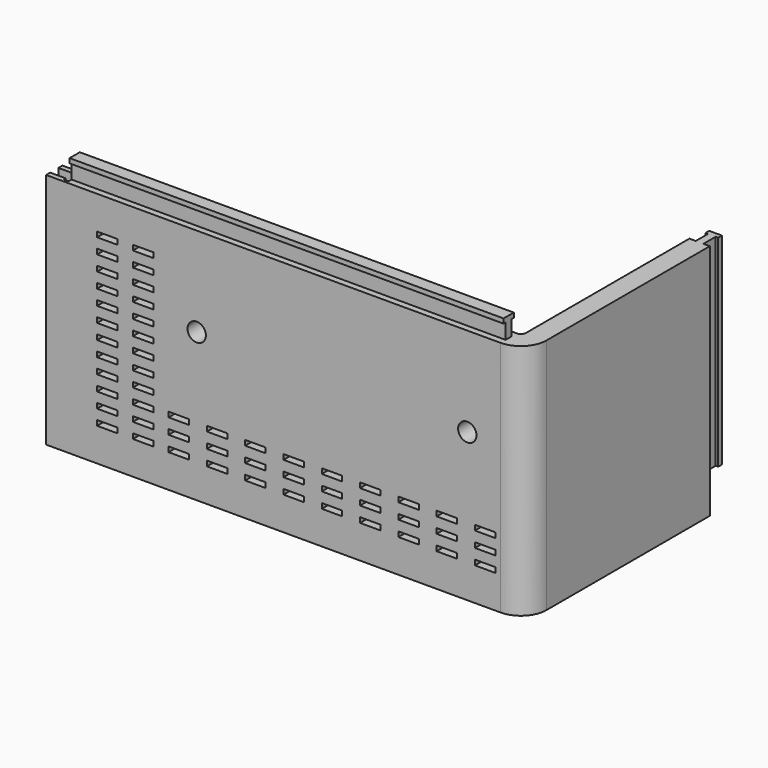
from build123d import *

# Parameters (mm, degrees)
PAD058_DEPTH                    = 46.5
SKETCH120_W                     = 4
SKETCH120_H                     = 1
POCKET068_DEPTH                 = 5
SKETCH120_LINEARPATTERN_2_W     = 4
SKETCH120_LINEARPATTERN_2_H     = 1
POCKET068_LINEARPATTERN_2_DEPTH = 5
LINEARPATTERN001_COUNT          = 12
LINEARPATTERN001_PITCH          = 2.954545
SKETCH122_W                     = 3
SKETCH122_H                     = 2
SKETCH122_W_2                   = 1
SKETCH122_H_2                   = 3
POCKET070_DEPTH                 = 70.9
SKETCH123_W                     = 2
SKETCH123_H                     = 35
POCKET071_DEPTH                 = 7
PAD_START                       = 4
SKETCH119_W                     = 1.5
SKETCH119_H                     = 3
SKETCH119_W_2                   = 2.5
SKETCH119_H_2                   = 0.9
PAD_DEPTH                       = 85
PAD059_START                    = 7
SKETCH_W                        = 1.5
SKETCH_H                        = 3
SKETCH_W_2                      = 2.5
SKETCH_H_2                      = 0.9
PAD059_DEPTH                    = 39.5
SKETCH124_W                     = 4
SKETCH124_H                     = 1
POCKET_DEPTH                    = 5
SKETCH124_LINEARPATTERN002_2_W  = 4
SKETCH124_LINEARPATTERN002_2_H  = 1
POCKET_LINEARPATTERN002_2_DEPTH = 5
SKETCH124_LINEARPATTERN002_3_W  = 4
SKETCH124_LINEARPATTERN002_3_H  = 1
POCKET_LINEARPATTERN002_3_DEPTH = 5
SKETCH124_LINEARPATTERN002_4_W  = 4
SKETCH124_LINEARPATTERN002_4_H  = 1
POCKET_LINEARPATTERN002_4_DEPTH = 5
SKETCH124_LINEARPATTERN002_5_W  = 4
SKETCH124_LINEARPATTERN002_5_H  = 1
POCKET_LINEARPATTERN002_5_DEPTH = 5
SKETCH124_LINEARPATTERN002_6_W  = 4
SKETCH124_LINEARPATTERN002_6_H  = 1
POCKET_LINEARPATTERN002_6_DEPTH = 5
SKETCH124_LINEARPATTERN002_7_W  = 4
SKETCH124_LINEARPATTERN002_7_H  = 1
POCKET_LINEARPATTERN002_7_DEPTH = 5
SKETCH124_LINEARPATTERN002_8_W  = 4
SKETCH124_LINEARPATTERN002_8_H  = 1
POCKET_LINEARPATTERN002_8_DEPTH = 5
SKETCH124_LINEARPATTERN002_9_W  = 4
SKETCH124_LINEARPATTERN002_9_H  = 1
POCKET_LINEARPATTERN002_9_DEPTH = 5
LINEARPATTERN003_COUNT          = 3
LINEARPATTERN003_PITCH          = 3
SKETCH126_R                     = 1.8
POCKET072_DEPTH                 = 5


with BuildPart() as part:
    # Sketch117 → Pad058 (new body)
    with BuildSketch(Plane.XY):
        with BuildLine():
            Line((0, 0), (89, 0))
            ThreePointArc((89, 0), (92.535534, 1.464466), (94, 5))
            Line((94, 5), (94, 45))
            Line((90, 45), (94, 45))
            Line((90, 5), (90, 45))
            ThreePointArc((89, 4), (89.707107, 4.292893), (90, 5))
            Line((0, 4), (89, 4))
            Line((0, 0), (0, 4))
        make_face()
    extrude(amount=PAD058_DEPTH)

    # Sketch120 → Pocket068 (cut)
    with BuildSketch(Plane.XZ):
        with Locations((12, 39.5)):
            Rectangle(SKETCH120_W, SKETCH120_H)
    pocket068 = extrude(amount=-POCKET068_DEPTH, mode=Mode.SUBTRACT)

    # Sketch120 LinearPattern 2 → Pocket068 LinearPattern 2 (cut)
    with BuildSketch(Plane(origin=(7, 0, 0), x_dir=(1, 0, 0), z_dir=(0, -1, 0))):
        with Locations((12, 39.5)):
            Rectangle(SKETCH120_LINEARPATTERN_2_W, SKETCH120_LINEARPATTERN_2_H)
    pocket068_linearpattern_2 = extrude(amount=-POCKET068_LINEARPATTERN_2_DEPTH, mode=Mode.SUBTRACT)

    # LinearPattern001: Pocket068, Pocket068 LinearPattern 2 ×12
    with Locations(*[(0, 0, -i * LINEARPATTERN001_PITCH) for i in range(1, LINEARPATTERN001_COUNT)]):
        add(pocket068, mode=Mode.SUBTRACT)
        add(pocket068_linearpattern_2, mode=Mode.SUBTRACT)

    # Sketch122 → Pocket070 (cut)
    with BuildSketch(Plane.XY):
        with Locations((1.5, 2)):
            Rectangle(SKETCH122_W, SKETCH122_H)
        with Locations((3.5, 2)):
            Rectangle(SKETCH122_W_2, SKETCH122_H_2)
    extrude(amount=POCKET070_DEPTH, mode=Mode.SUBTRACT)

    # Sketch123 → Pocket071 (cut)
    with BuildSketch(Plane.XY):
        with Locations((92, 27.5)):
            Rectangle(SKETCH123_W, SKETCH123_H)
    extrude(amount=POCKET071_DEPTH, mode=Mode.SUBTRACT)

    # Sketch119 → Pad (join)
    with BuildSketch(Plane.YZ.offset(PAD_START)):
        with Locations((2, 48)):
            Rectangle(SKETCH119_W, SKETCH119_H)
        with Locations((2, 49.95)):
            Rectangle(SKETCH119_W_2, SKETCH119_H_2)
    extrude(amount=PAD_DEPTH)

    # Sketch → Pad059 (join)
    with BuildSketch(Plane.XY.offset(PAD059_START)):
        with Locations((92, 46.5)):
            Rectangle(SKETCH_W, SKETCH_H)
        with Locations((92, 48.45)):
            Rectangle(SKETCH_W_2, SKETCH_H_2)
    extrude(amount=PAD059_DEPTH)

    # Sketch124 → Pocket (cut)
    with BuildSketch(Plane.XZ):
        with Locations((26, 7)):
            Rectangle(SKETCH124_W, SKETCH124_H)
    pocket = extrude(amount=-POCKET_DEPTH, mode=Mode.SUBTRACT)

    # Sketch124 LinearPattern002 2 → Pocket LinearPattern002 2 (cut)
    with BuildSketch(Plane(origin=(7.5, 0, 0), x_dir=(1, 0, 0), z_dir=(0, -1, 0))):
        with Locations((26, 7)):
            Rectangle(SKETCH124_LINEARPATTERN002_2_W, SKETCH124_LINEARPATTERN002_2_H)
    pocket_linearpattern002_2 = extrude(amount=-POCKET_LINEARPATTERN002_2_DEPTH, mode=Mode.SUBTRACT)

    # Sketch124 LinearPattern002 3 → Pocket LinearPattern002 3 (cut)
    with BuildSketch(Plane(origin=(15, 0, 0), x_dir=(1, 0, 0), z_dir=(0, -1, 0))):
        with Locations((26, 7)):
            Rectangle(SKETCH124_LINEARPATTERN002_3_W, SKETCH124_LINEARPATTERN002_3_H)
    pocket_linearpattern002_3 = extrude(amount=-POCKET_LINEARPATTERN002_3_DEPTH, mode=Mode.SUBTRACT)

    # Sketch124 LinearPattern002 4 → Pocket LinearPattern002 4 (cut)
    with BuildSketch(Plane(origin=(22.5, 0, 0), x_dir=(1, 0, 0), z_dir=(0, -1, 0))):
        with Locations((26, 7)):
            Rectangle(SKETCH124_LINEARPATTERN002_4_W, SKETCH124_LINEARPATTERN002_4_H)
    pocket_linearpattern002_4 = extrude(amount=-POCKET_LINEARPATTERN002_4_DEPTH, mode=Mode.SUBTRACT)

    # Sketch124 LinearPattern002 5 → Pocket LinearPattern002 5 (cut)
    with BuildSketch(Plane(origin=(30, 0, 0), x_dir=(1, 0, 0), z_dir=(0, -1, 0))):
        with Locations((26, 7)):
            Rectangle(SKETCH124_LINEARPATTERN002_5_W, SKETCH124_LINEARPATTERN002_5_H)
    pocket_linearpattern002_5 = extrude(amount=-POCKET_LINEARPATTERN002_5_DEPTH, mode=Mode.SUBTRACT)

    # Sketch124 LinearPattern002 6 → Pocket LinearPattern002 6 (cut)
    with BuildSketch(Plane(origin=(37.5, 0, 0), x_dir=(1, 0, 0), z_dir=(0, -1, 0))):
        with Locations((26, 7)):
            Rectangle(SKETCH124_LINEARPATTERN002_6_W, SKETCH124_LINEARPATTERN002_6_H)
    pocket_linearpattern002_6 = extrude(amount=-POCKET_LINEARPATTERN002_6_DEPTH, mode=Mode.SUBTRACT)

    # Sketch124 LinearPattern002 7 → Pocket LinearPattern002 7 (cut)
    with BuildSketch(Plane(origin=(45, 0, 0), x_dir=(1, 0, 0), z_dir=(0, -1, 0))):
        with Locations((26, 7)):
            Rectangle(SKETCH124_LINEARPATTERN002_7_W, SKETCH124_LINEARPATTERN002_7_H)
    pocket_linearpattern002_7 = extrude(amount=-POCKET_LINEARPATTERN002_7_DEPTH, mode=Mode.SUBTRACT)

    # Sketch124 LinearPattern002 8 → Pocket LinearPattern002 8 (cut)
    with BuildSketch(Plane(origin=(52.5, 0, 0), x_dir=(1, 0, 0), z_dir=(0, -1, 0))):
        with Locations((26, 7)):
            Rectangle(SKETCH124_LINEARPATTERN002_8_W, SKETCH124_LINEARPATTERN002_8_H)
    pocket_linearpattern002_8 = extrude(amount=-POCKET_LINEARPATTERN002_8_DEPTH, mode=Mode.SUBTRACT)

    # Sketch124 LinearPattern002 9 → Pocket LinearPattern002 9 (cut)
    with BuildSketch(Plane(origin=(60, 0, 0), x_dir=(1, 0, 0), z_dir=(0, -1, 0))):
        with Locations((26, 7)):
            Rectangle(SKETCH124_LINEARPATTERN002_9_W, SKETCH124_LINEARPATTERN002_9_H)
    pocket_linearpattern002_9 = extrude(amount=-POCKET_LINEARPATTERN002_9_DEPTH, mode=Mode.SUBTRACT)

    # LinearPattern003: Pocket, Pocket LinearPattern002 2, Pocket LinearPattern002 3, Pocket LinearPattern002 4, Pocket LinearPattern002 5, Pocket LinearPattern002 6, Pocket LinearPattern002 7, Pocket LinearPattern002 8, Pocket LinearPattern002 9 ×3
    with Locations(*[(0, 0, i * LINEARPATTERN003_PITCH) for i in range(1, LINEARPATTERN003_COUNT)]):
        add(pocket, mode=Mode.SUBTRACT)
        add(pocket_linearpattern002_2, mode=Mode.SUBTRACT)
        add(pocket_linearpattern002_3, mode=Mode.SUBTRACT)
        add(pocket_linearpattern002_4, mode=Mode.SUBTRACT)
        add(pocket_linearpattern002_5, mode=Mode.SUBTRACT)
        add(pocket_linearpattern002_6, mode=Mode.SUBTRACT)
        add(pocket_linearpattern002_7, mode=Mode.SUBTRACT)
        add(pocket_linearpattern002_8, mode=Mode.SUBTRACT)
        add(pocket_linearpattern002_9, mode=Mode.SUBTRACT)

    # Sketch126 → Pocket072 (cut)
    with BuildSketch(Plane.XZ):
        with Locations((29.5, 29)):
            Circle(SKETCH126_R)
        with Locations((82.5, 29)):
            Circle(SKETCH126_R)
    extrude(amount=-POCKET072_DEPTH, mode=Mode.SUBTRACT)


solid = part.part
